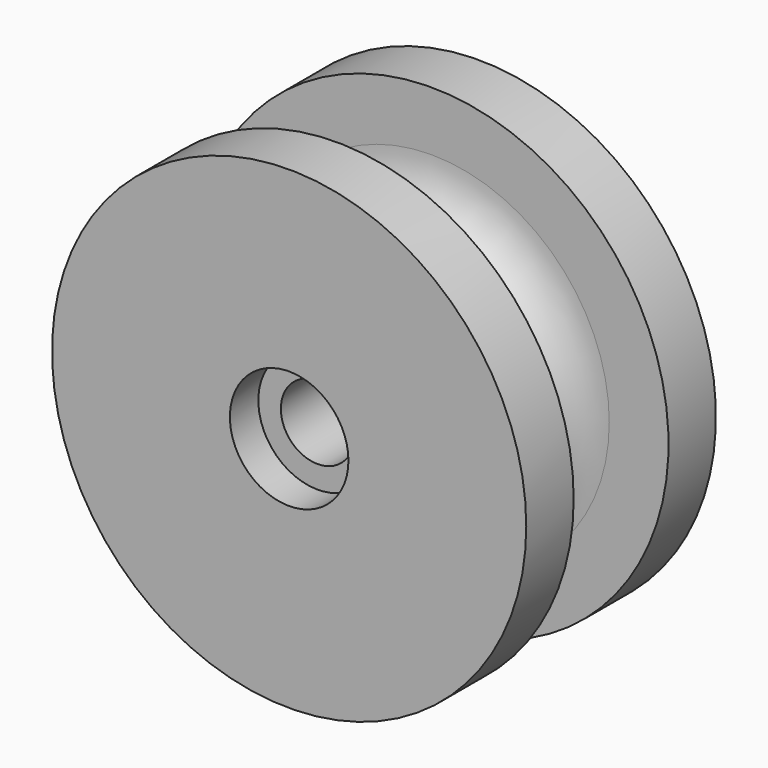
from build123d import *

# Parameters (mm, degrees)
F0_R      = 15
F1_DEPTH  = 5
F2_R      = 15
F3_DEPTH  = 5
F4_R      = 5
F6_R      = 20
F7_DEPTH  = 5
F8_R      = 20
F9_DEPTH  = 5
F10_R     = 3.1
F11_DEPTH = 25
F10_R_2   = 5
F12_DEPTH = 3
F13_R     = 5
F13_R_2   = 3.1
F14_DEPTH = 3


with BuildPart() as f1:
    # F0 (on Front) → F1 (new body)
    with BuildSketch(Plane.XZ):
        Circle(F0_R)
    extrude(amount=F1_DEPTH)

    # F2 (on face) → F3 (join)
    with BuildSketch(Plane(origin=(0, 0, 0), x_dir=(-1, 0, 0), z_dir=(0, 1, 0))):
        Circle(F2_R)
    extrude(amount=F3_DEPTH)

    # F5: sweep along a path in F2
    with BuildLine(Plane(origin=(0, 0, 0), x_dir=(-1, 0, 0), z_dir=(0, 1, 0))) as f5_path:
        CenterArc((0, 0), 15, 0, 360)
    # F4 (on Right) → F5 (sweep, cut)
    with BuildSketch(Plane.YZ):
        with Locations((0, -15)):
            Circle(F4_R)
    sweep(path=f5_path.line, mode=Mode.SUBTRACT)

    # F6 (on face) → F7 (join)
    with BuildSketch(Plane.XZ.offset(5)):
        Circle(F6_R)
    extrude(amount=F7_DEPTH)

    # F8 (on face) → F9 (join)
    with BuildSketch(Plane(origin=(0, 5, 0), x_dir=(-1, 0, 0), z_dir=(0, 1, 0))):
        Circle(F8_R)
    extrude(amount=F9_DEPTH)

    # F10 (on face) → F11 (cut)
    with BuildSketch(Plane.XZ.offset(10)):
        Circle(F10_R)
    extrude(amount=-F11_DEPTH, mode=Mode.SUBTRACT)

    # F10 (on face) → F12 (cut)
    with BuildSketch(Plane.XZ.offset(10)):
        Circle(F10_R_2)
        Circle(F10_R, mode=Mode.SUBTRACT)
    extrude(amount=-F12_DEPTH, mode=Mode.SUBTRACT)

    # F13 (on face) → F14 (cut)
    with BuildSketch(Plane(origin=(0, 10, 0), x_dir=(-1, 0, 0), z_dir=(0, 1, 0))):
        Circle(F13_R)
        Circle(F13_R_2, mode=Mode.SUBTRACT)
    extrude(amount=-F14_DEPTH, mode=Mode.SUBTRACT)


solid = f1.part
